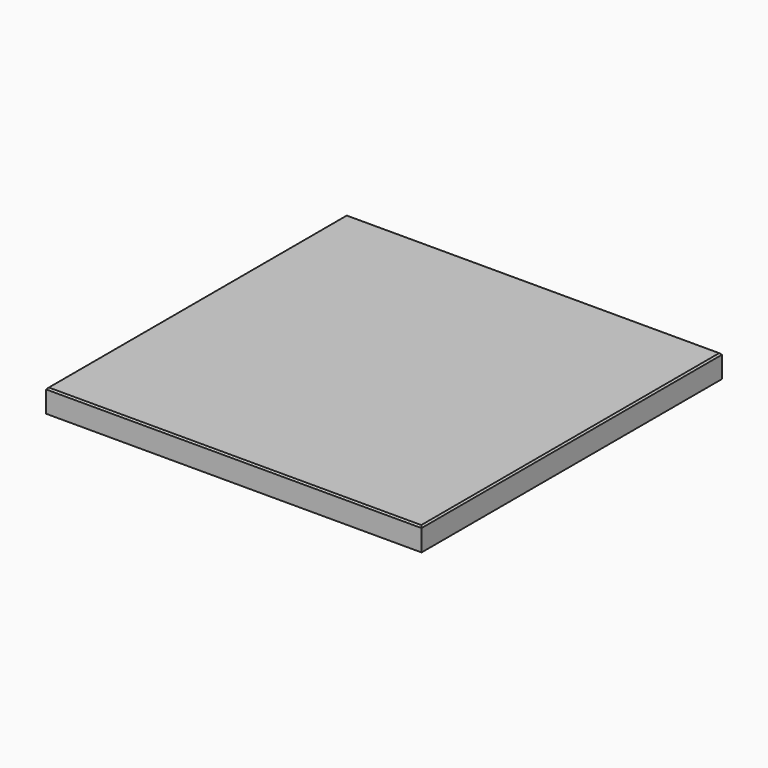
from build123d import *

# Parameters (mm, degrees)
F0_W     = 490
F0_H     = 490
F1_DEPTH = 30
F2_SIZE  = 2


with BuildPart() as f1:
    # F0 (on Top) → F1 (new body)
    with BuildSketch(Plane.XY):
        Rectangle(F0_W, F0_H)
    extrude(amount=F1_DEPTH)

    # F2
    f2_edges = [f1.edges().sort_by_distance(p)[0] for p in [
        (-245, 0, 30),
        (0, -245, 30),
        (245, 0, 30),
        (0, 245, 30),
    ]]
    chamfer(f2_edges, length=F2_SIZE)


solid = f1.part
